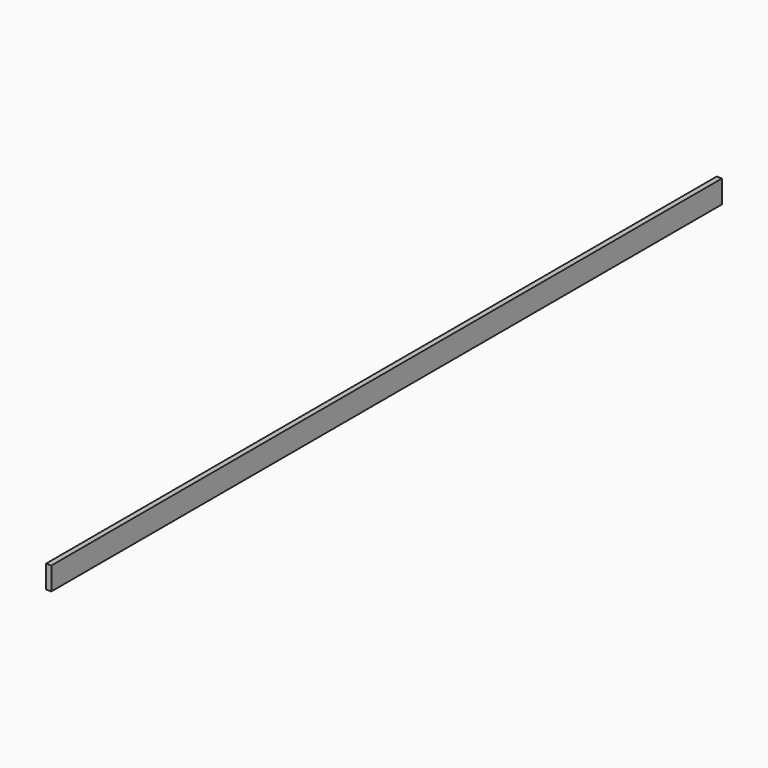
from build123d import *

# Parameters (mm, degrees)
SKETCH005_W  = 1.38
SKETCH005_H  = 6
PAD001_DEPTH = 220


with BuildPart() as part:
    # Sketch005 → Pad001 (new body)
    with BuildSketch(Plane.XZ):
        with Locations((0.69, 3)):
            Rectangle(SKETCH005_W, SKETCH005_H)
    extrude(amount=PAD001_DEPTH)


solid = part.part
